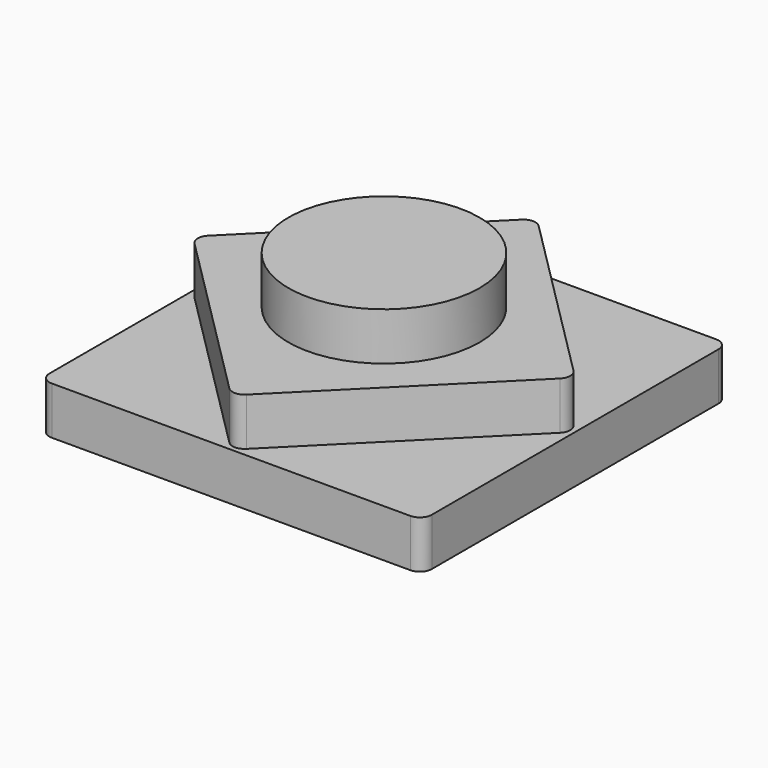
from build123d import *

# Parameters (mm, degrees)
F0_W     = 50.8
F0_H     = 50.8
F1_DEPTH = 6.35
F3_DEPTH = 6.35
F4_R     = 12.7
F5_DEPTH = 6.35
F6_R     = 1.5875


with BuildPart() as f1:
    # F0 (on Top) → F1 (new body)
    with BuildSketch(Plane.XY):
        Rectangle(F0_W, F0_H)
    extrude(amount=F1_DEPTH)

    # F2 (on face) → F3 (join)
    with BuildSketch(Plane.XY.offset(6.35)):
        Polygon((0, -25.4), (25.4, 0), (0, 25.4), (-25.4, 0), align=None)
    extrude(amount=F3_DEPTH)

    # F4 (on face) → F5 (join)
    with BuildSketch(Plane.XY.offset(12.7)):
        Circle(F4_R)
    extrude(amount=F5_DEPTH)

    # F6
    f6_edges = [f1.edges().sort_by_distance(p)[0] for p in [
        (-25.4, 0, 9.525),
        (25.4, 0, 9.525),
        (0, 25.4, 9.525),
        (0, -25.4, 9.525),
        (-25.4, 25.4, 3.175),
        (-25.4, -25.4, 3.175),
        (25.4, -25.4, 3.175),
        (25.4, 25.4, 3.175),
    ]]
    fillet(f6_edges, radius=F6_R)


solid = f1.part
